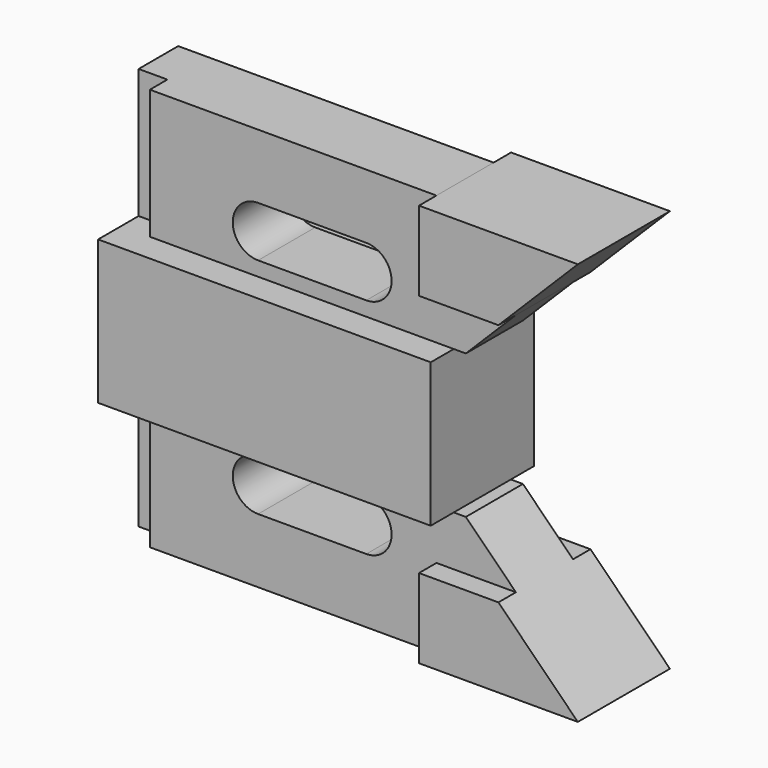
from build123d import *

# Parameters (mm, degrees)
F1_DEPTH = 14.224
F2_DEPTH = 12.7
F3_DEPTH = 7.874
F0_W     = 6.35
F0_H     = 28.575
F4_DEPTH = 7.874
F5_DEPTH = 3.048


with BuildPart() as f1:
    # F0 (on Front) → F1 (new body, symmetric)
    with BuildSketch(Plane.XZ):
        Polygon((6.35, 0), (0, 0), (0, -15.875), (73.406, -15.875), (73.406, 0), align=None)
    extrude(amount=F1_DEPTH, both=True)

    # F6: F1, F3, F2 across face


with BuildPart() as f2:
    # F0 (on Front) → F2 (new body, symmetric)
    with BuildSketch(Plane.XZ):
        Polygon((104.648, 28.575), (69.596, 28.575), (69.596, 11.049), (87.122, 11.049), align=None)
    extrude(amount=F2_DEPTH, both=True)


with BuildPart() as f3:
    # F0 (on Front) → F3 (new body, symmetric)
    with BuildSketch(Plane.XZ):
        Polygon((69.596, 28.575), (6.35, 28.575), (6.35, 0), (73.406, 0), (76.073, 0), (87.122, 11.049), (69.596, 11.049), align=None)
        with BuildLine():
            ThreePointArc((30.226, 3.175), (24.638, 8.763), (30.226, 14.351))
            Line((30.226, 14.351), (54.102, 14.351))
            ThreePointArc((54.102, 14.351), (58.0533126933, 12.7143126933), (59.69, 8.763))
            ThreePointArc((59.69, 8.763), (58.0533126933, 4.8116873067), (54.102, 3.175))
            Line((54.102, 3.175), (30.226, 3.175))
        make_face(mode=Mode.SUBTRACT)
    extrude(amount=F3_DEPTH, both=True)



with BuildPart() as f4:
    # F0 (on Front) → F4 (new body)
    with BuildSketch(Plane.XZ):
        with Locations((3.175, 14.2875)):
            Rectangle(F0_W, F0_H)
    extrude(amount=-F4_DEPTH)


with BuildPart() as f3_1:
    add(f3.part)

    add(f4.part)  # F5 merges F4
    # F0 (on Front) → F5 (join)
    with BuildSketch(Plane.XZ):
        with Locations((3.175, 14.2875)):
            Rectangle(F0_W, F0_H)
    extrude(amount=F5_DEPTH)


with BuildPart() as f1_1:
    add(f1.part)
    add(f1.part.mirror(Plane(origin=(36.703, 0, -15.875), x_dir=(1, 0, 0), z_dir=(0, 0, -1))))
    add(f3_1.part.mirror(Plane(origin=(36.703, 0, -15.875), x_dir=(1, 0, 0), z_dir=(0, 0, -1))))
    add(f2.part.mirror(Plane(origin=(36.703, 0, -15.875), x_dir=(1, 0, 0), z_dir=(0, 0, -1))))


solid = Compound([f2.part, f3_1.part, f1_1.part])
